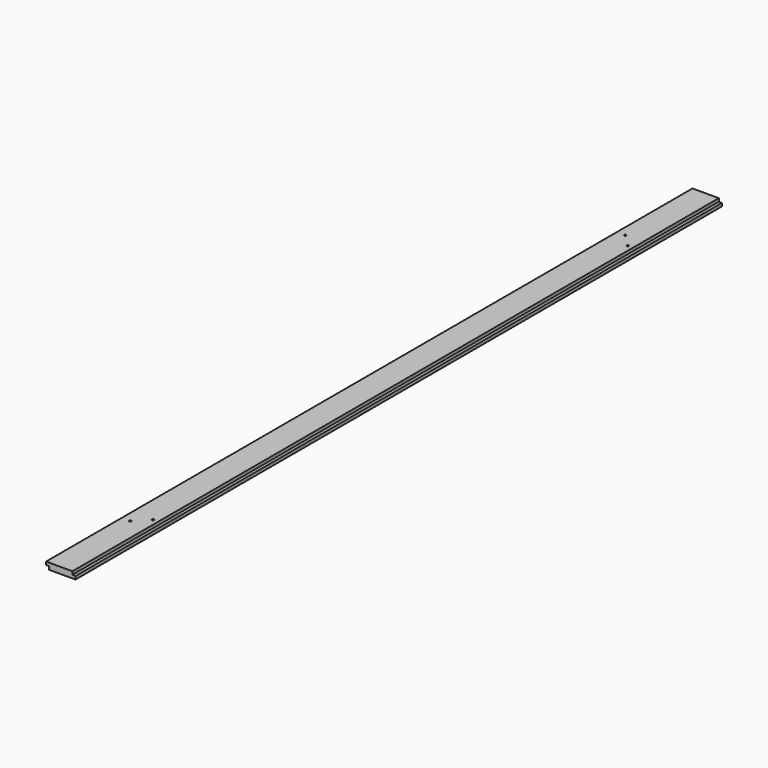
from build123d import *

# Parameters (mm, degrees)
F0_W     = 88.9
F0_H     = 19.05
F1_DEPTH = 1219.2
F2_W     = 47.093141
F2_H     = 23.127535
F2_W_2   = 44.159885
F2_H_2   = 21.999364
F3_DEPTH = 2438.401
F4_R     = 3.175
F5_DEPTH = 19.051


with BuildPart() as f1:
    # F0 (on Front) → F1 (new body, symmetric)
    with BuildSketch(Plane.XZ):
        Rectangle(F0_W, F0_H)
    extrude(amount=F1_DEPTH, both=True)

    # F2 (on face) → F3 (cut, through all)
    with BuildSketch(Plane.XZ.offset(1219.2)):
        with Locations((-58.47157, -11.563767)):
            Rectangle(F2_W, F2_H)
        with Locations((57.004942, 10.999682)):
            Rectangle(F2_W_2, F2_H_2)
    extrude(amount=-F3_DEPTH, mode=Mode.SUBTRACT)

    # F4 (on face) → F5 (cut, through all)
    with BuildSketch(Plane.XY.offset(9.525)):
        with Locations((-19.05, -933.45)):
            Circle(F4_R)
        with Locations((19.05, -895.35)):
            Circle(F4_R)
        with Locations((-19.05, 933.45)):
            Circle(F4_R)
        with Locations((19.05, 895.35)):
            Circle(F4_R)
    extrude(amount=-F5_DEPTH, mode=Mode.SUBTRACT)


solid = f1.part
